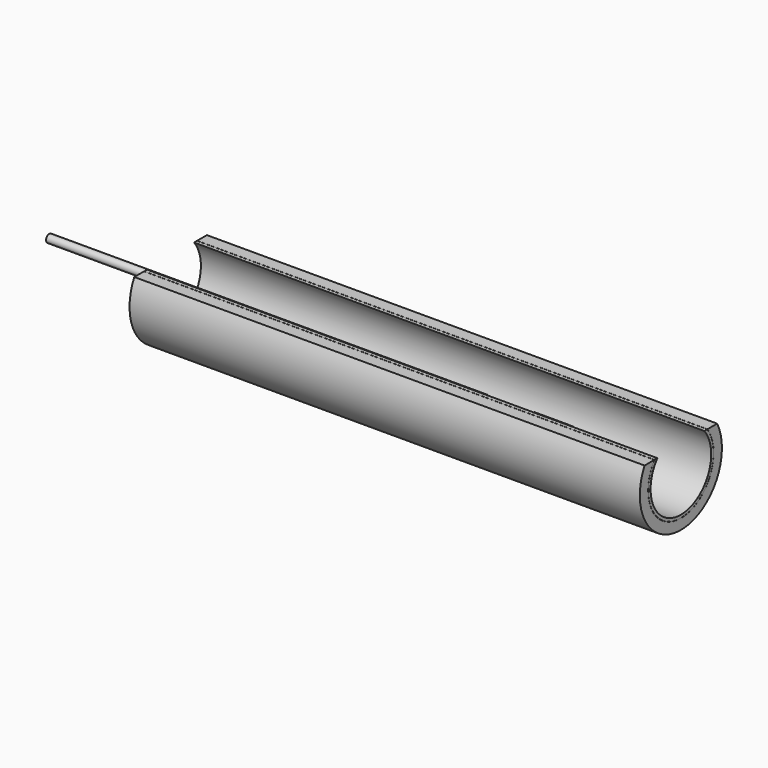
from build123d import *

# Parameters (mm, degrees)
F0_R          = 32.467339
F0_R_2        = 30.172731
F1_DEPTH      = 203.2
F1_DEPTH_BACK = 203.2
F2_R          = 40.860562
F2_R_2        = 32.557761
F3_DEPTH      = 203.2
F3_DEPTH_BACK = 203.2
F4_R          = 3.150683
F5_DEPTH      = 111.76
F5_DEPTH_BACK = 299.72
F10_R         = 3.071737
F11_DEPTH     = 4.318
F13_W         = 426.029071
F13_H         = 92.935704
F14_DEPTH     = 35.814


with BuildPart() as f1:
    # F0 (on Right) → F1 (new body, two sides)
    with BuildSketch(Plane.YZ) as f1_sk:
        Circle(F0_R)
        Circle(F0_R_2, mode=Mode.SUBTRACT)
    extrude(amount=F1_DEPTH)
    extrude(f1_sk.sketch, amount=-F1_DEPTH_BACK)


with BuildPart() as f3:
    # F2 (on Right) → F3 (new body, two sides)
    with BuildSketch(Plane.YZ) as f3_sk:
        Circle(F2_R)
        Circle(F2_R_2, mode=Mode.SUBTRACT)
    extrude(amount=F3_DEPTH)
    extrude(f3_sk.sketch, amount=-F3_DEPTH_BACK)


with BuildPart() as f5:
    # F4 (on Right) → F5 (new body, two sides)
    with BuildSketch(Plane.YZ) as f5_sk:
        with Locations((-0.150834, 0.188072)):
            Circle(F4_R)
    extrude(amount=F5_DEPTH)
    extrude(f5_sk.sketch, amount=-F5_DEPTH_BACK)

    # F6 (on Top) → F8 (revolve, cut)
    with BuildSketch(Plane.XY):
        Polygon((46.162983, 4.727822), (48.628672, 2.079207), (84.48353, 2.079207), (86.781593, 4.727822), align=None)
    revolve(axis=Axis((28.044745, 0.274948, 0), (1, 0, 0)), mode=Mode.SUBTRACT)


with BuildPart() as f11:
    # F10 (on offset) → F11 (new body)
    with BuildSketch(Plane.YZ.offset(111.76)):
        with Locations((-0.114645, 0.187832)):
            Circle(F10_R)
    extrude(amount=F11_DEPTH)


with BuildPart() as f14_tool:
    # F13 (on offset) → F14 (new body)
    with BuildSketch(Plane.XY.offset(19.05)):
        with Locations((-1.902603, -0.868738)):
            Rectangle(F13_W, F13_H)
    extrude(amount=F14_DEPTH)


with BuildPart() as f1_1:
    add(f1.part)

    # F14: cut by f14_tool
    add(f14_tool.part, mode=Mode.SUBTRACT)


with BuildPart() as f3_1:
    add(f3.part)

    # F14: cut by f14_tool
    add(f14_tool.part, mode=Mode.SUBTRACT)


solid = Compound([f5.part, f11.part, f1_1.part, f3_1.part])
